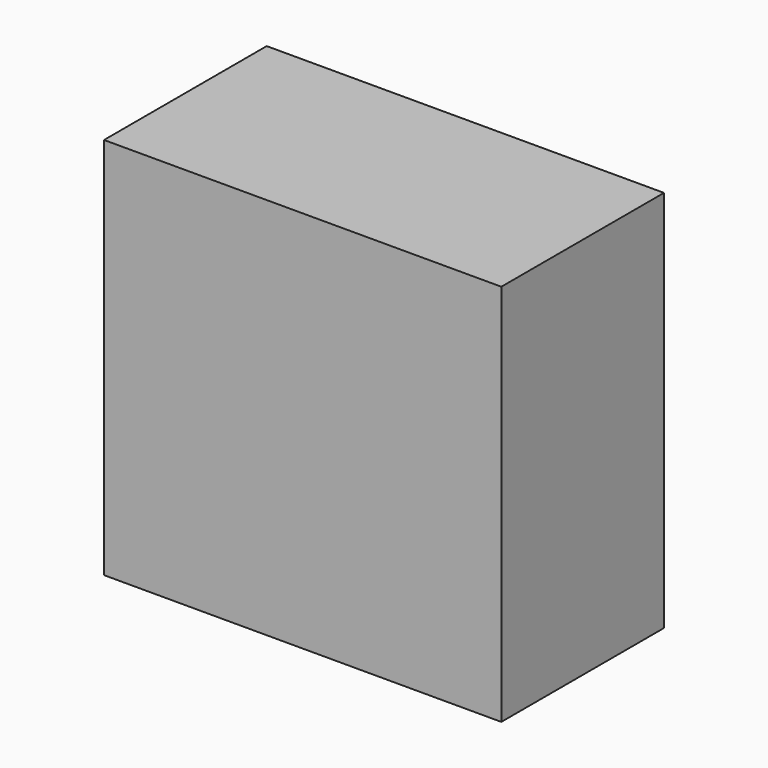
from build123d import *

# Parameters (mm, degrees)
F0_W      = 49.633597
F0_H      = 47.860969
F1_DEPTH  = 25.4
F2_W      = 27.072871
F2_H      = 22.077278
F3_DEPTH  = 25.4
F1_FACE_W = 49.633598
F1_FACE_H = 47.860968
F4_DEPTH  = 25.4


with BuildPart() as f1:
    # F0 (on Front) → F1 (new body)
    with BuildSketch(Plane.XZ):
        with Locations((-35.452568, 37.547494)):
            Rectangle(F0_W, F0_H)
    extrude(amount=F1_DEPTH)

    # F2 (on face) → F3 (join)
    with BuildSketch(Plane.XZ.offset(25.4)):
        with Locations((-39.158972, 40.609304)):
            Rectangle(F2_W, F2_H)
    extrude(amount=-F3_DEPTH)

    # F1_face (on face) → F4 (cut)
    with BuildSketch(Plane(origin=(-35.452568, -25.4, 37.547493), x_dir=(1, 0, 0), z_dir=(0, -1, 0))):
        Rectangle(F1_FACE_W, F1_FACE_H)
    extrude(amount=F4_DEPTH, mode=Mode.SUBTRACT)


solid = f1.part
